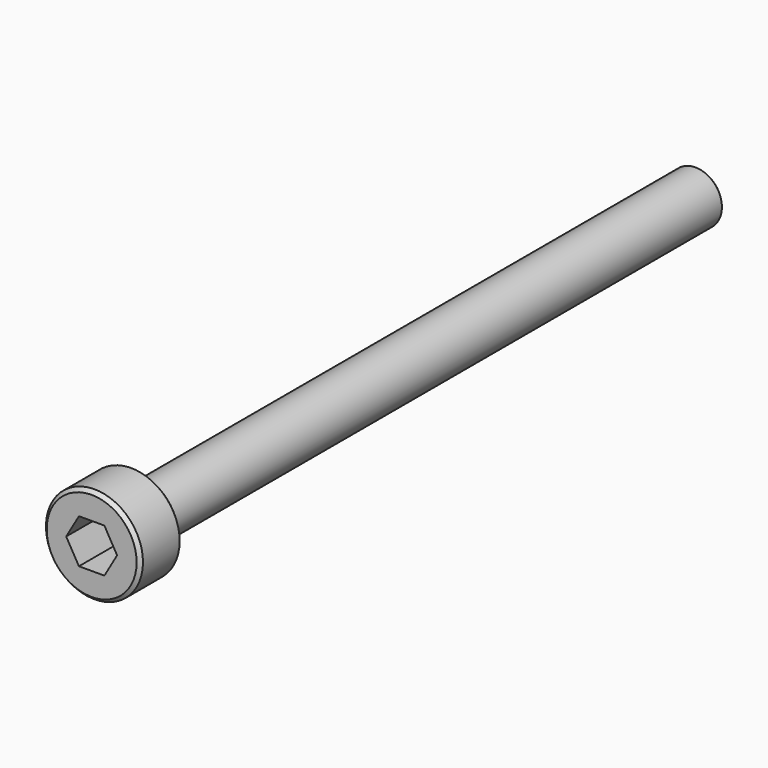
from build123d import *

# Parameters (mm, degrees)
SKETCH006_R             = 2.75
PAD002_DEPTH            = 3
SKETCH007_R             = 1.5
PAD003_DEPTH            = 40
POCKET003_DEPTH         = 4
CHAMFER001_SIZE         = 0.2
BODY002_PLACEMENT_ANGLE = 90


with BuildPart() as part:
    # Sketch006 → Pad002 (new body)
    with BuildSketch(Plane.XY):
        Circle(SKETCH006_R)
    extrude(amount=PAD002_DEPTH)

    # Sketch007 (on Face2 of Pad002) → Pad003 (join)
    with BuildSketch(Plane(origin=(0, 0, 0), x_dir=(1, 0, 0), z_dir=(0, 0, -1))):
        Circle(SKETCH007_R)
    extrude(amount=PAD003_DEPTH)

    # Sketch008 (on DatumPlane) → Pocket003 (cut)
    with BuildSketch(Plane.XY.offset(3)):
        Polygon((0.7216878365, -1.25), (1.443375673, 0), (0.7216878365, 1.25), (-0.7216878365, 1.25), (-1.443375673, 0), (-0.7216878365, -1.25), align=None)
    extrude(amount=-POCKET003_DEPTH, mode=Mode.SUBTRACT)

    # Chamfer001
    chamfer001_edges = [part.edges().sort_by_distance(p)[0] for p in [
        (-1.5, 0, -40),
        (-2.75, 0, 0),
        (-2.75, 0, 3),
    ]]
    chamfer(chamfer001_edges, length=CHAMFER001_SIZE)


with BuildPart() as part_1:
    # Body002 placement: moved
    add(part.part.moved(Location((35.8, 0, 78.7))).rotate(Axis((35.8, 0, 78.7), (1, 0, 0)), BODY002_PLACEMENT_ANGLE))


solid = part_1.part
